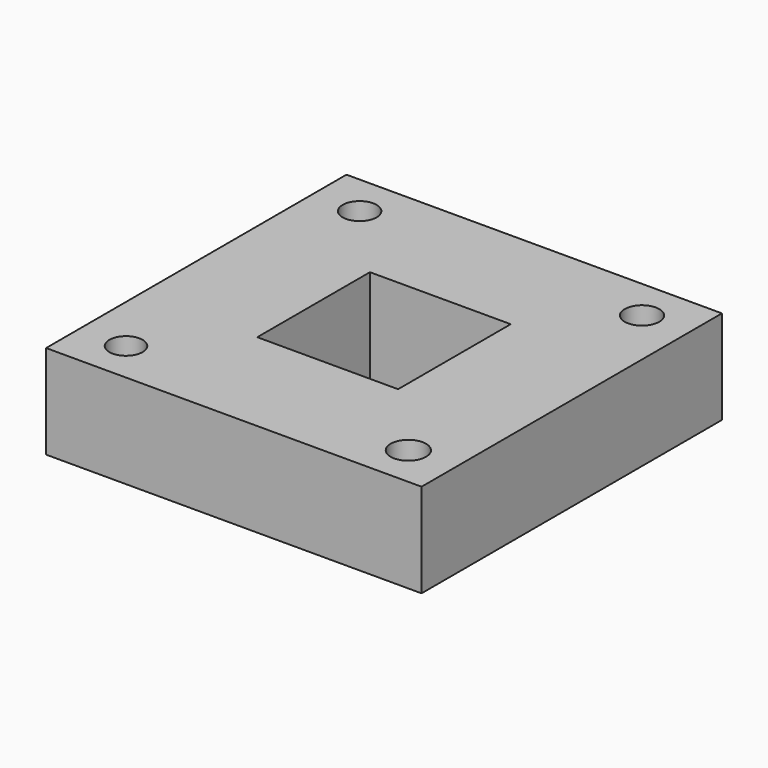
from build123d import *

# Parameters (mm, degrees)
F0_W     = 101.6
F0_H     = 101.6
F0_R     = 4.50054
F0_W_2   = 38.1
F0_H_2   = 38.1
F0_R_2   = 4.787872
F0_R_3   = 4.589665
F0_R_4   = 4.672002
F1_DEPTH = 25.4


with BuildPart() as f1:
    # F0 (on Top) → F1 (new body)
    with BuildSketch(Plane.XY):
        Rectangle(F0_W, F0_H)
        with Locations((-38.203955, -39.513808)):
            Circle(F0_R, mode=Mode.SUBTRACT)
        Rectangle(F0_W_2, F0_H_2, mode=Mode.SUBTRACT)
        with Locations((38.203955, -39.513808)):
            Circle(F0_R_2, mode=Mode.SUBTRACT)
        with Locations((-38.203955, 39.513808)):
            Circle(F0_R_3, mode=Mode.SUBTRACT)
        with Locations((38.203955, 39.513808)):
            Circle(F0_R_4, mode=Mode.SUBTRACT)
    extrude(amount=F1_DEPTH)


solid = f1.part
